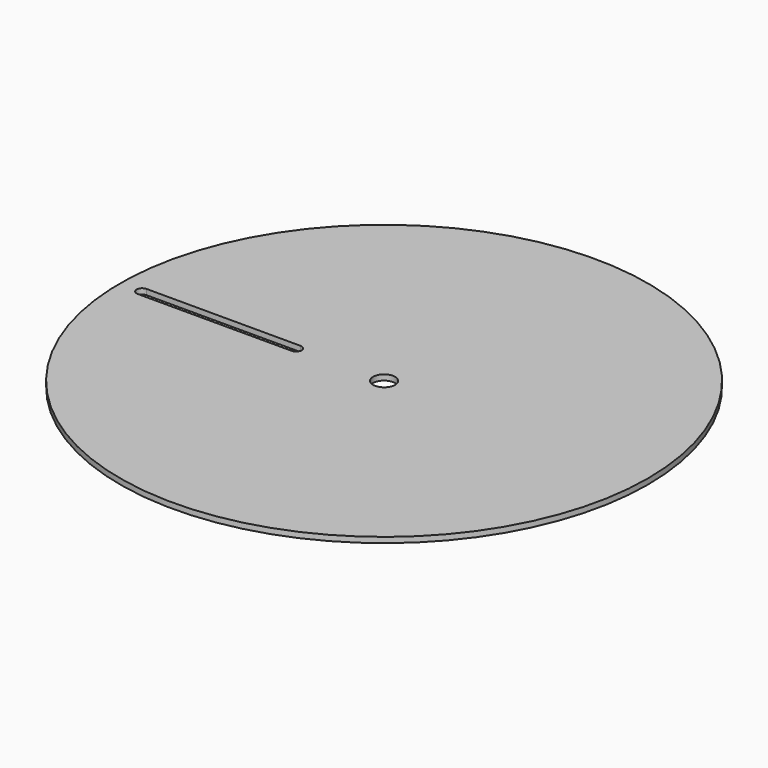
from build123d import *

# Parameters (mm, degrees)
F0_R     = 76.2
F0_R_2   = 3.175
F1_DEPTH = 1.5875
F3_DEPTH = 25.4


with BuildPart() as f1:
    # F0 (on Top) → F1 (new body)
    with BuildSketch(Plane.XY):
        Circle(F0_R)
        Circle(F0_R_2, mode=Mode.SUBTRACT)
    extrude(amount=F1_DEPTH)

    # F2 (on face) → F3 (cut)
    with BuildSketch(Plane.XY.offset(1.5875)):
        with BuildLine():
            Line((-25.4, 1.5875), (-69.85, 1.5875))
            ThreePointArc((-69.85, 1.5875), (-71.4375, 0), (-69.85, -1.5875))
            Line((-69.85, -1.5875), (-25.4, -1.5875))
            ThreePointArc((-25.4, -1.5875), (-23.8125, 0), (-25.4, 1.5875))
        make_face()
    extrude(amount=-F3_DEPTH, mode=Mode.SUBTRACT)


solid = f1.part
